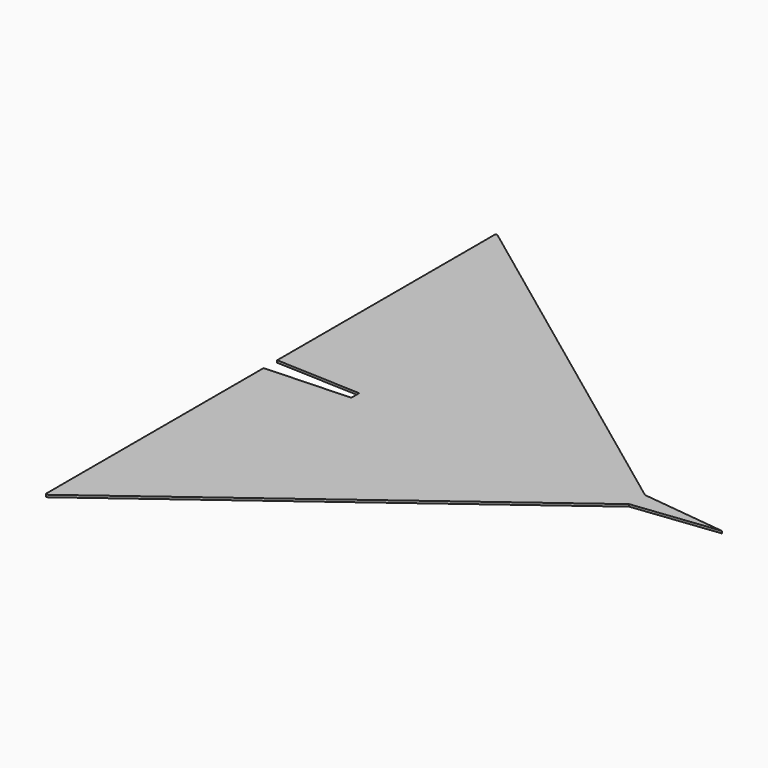
from build123d import *

# Parameters (mm, degrees)
F1_DEPTH = 2


with BuildPart() as f1:
    # F0 (on Top) → F1 (new body)
    with BuildSketch(Plane.XY):
        with BuildLine():
            Line((76.2, 0), (0, 8.89))
            Line((0, 8.89), (-327.358594, 252.490754))
            ThreePointArc((-327.358594, 252.490754), (-328.686864, 252.606748), (-329.386768, 251.471896))
            Line((-329.386768, 251.471896), (-329.386768, 7.62))
            Line((-329.386768, 7.62), (-253.186768, 4.445))
            Line((-253.186768, 4.445), (-253.186768, 0))
            Line((-253.186768, 0), (-253.186768, -4.445))
            Line((-253.186768, -4.445), (-329.386768, -7.62))
            Line((-329.386768, -7.62), (-329.386768, -251.471896))
            ThreePointArc((-329.386768, -251.471896), (-328.686864, -252.606748), (-327.358594, -252.490754))
            Line((-327.358594, -252.490754), (0, -8.89))
            Line((0, -8.89), (76.2, 0))
        make_face()
    extrude(amount=F1_DEPTH)


solid = f1.part
